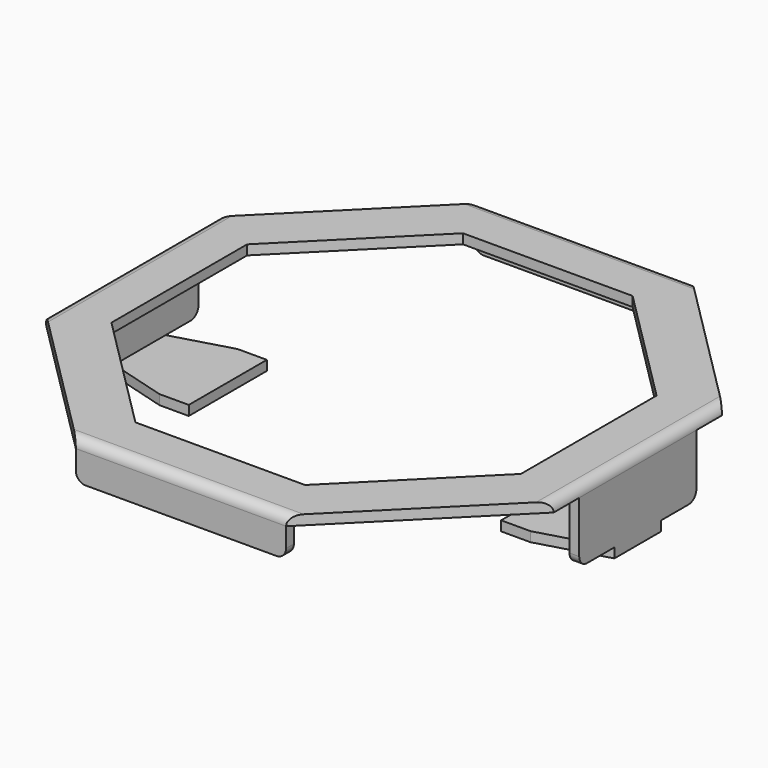
from build123d import *

# Parameters (mm, degrees)
PAD001_DEPTH = 0.1
SKETCH006_W  = 2.15391
SKETCH006_H  = 0.1
PAD002_DEPTH = 0.3
SKETCH007_W  = 0.1
SKETCH007_H  = 1.5
PAD003_DEPTH = 0.63
FILLET_R     = 0.1
PAD004_DEPTH = 0.1
FILLET001_R  = 0.1


with BuildPart() as part:
    # Sketch001 (on DatumPlane) → Pad001 (new body)
    with BuildSketch(Plane.XY.offset(0.84)):
        Polygon((-1.076955, 2.6), (1.076955, 2.6), (2.6, 1.076955), (2.6, -1.076955), (1.076955, -2.6), (-1.076955, -2.6), (-2.6, -1.076955), (-2.6, 1.076955), align=None)
        Polygon((-0.868691, 2.097207), (0.868691, 2.097207), (2.097207, 0.868691), (2.097207, -0.868691), (0.868691, -2.097207), (-0.868691, -2.097207), (-2.097207, -0.868691), (-2.097207, 0.868691), align=None, mode=Mode.SUBTRACT)
    extrude(amount=-PAD001_DEPTH)

    # Sketch006 (on Face18 of Pad001) → Pad002 (join)
    with BuildSketch(Plane(origin=(0, 0, 0.74), x_dir=(1, 0, 0), z_dir=(0, 0, -1))):
        with Locations((0, 2.55)):
            Rectangle(SKETCH006_W, SKETCH006_H)
        with Locations((0, -2.55)):
            Rectangle(SKETCH006_W, SKETCH006_H)
    extrude(amount=PAD002_DEPTH)

    # Sketch007 (on Face16 of Pad002) → Pad003 (join)
    with BuildSketch(Plane(origin=(0, 0, 0.74), x_dir=(1, 0, 0), z_dir=(0, 0, -1))):
        with Locations((-2.55, 0)):
            Rectangle(SKETCH007_W, SKETCH007_H)
        with Locations((2.55, 0)):
            Rectangle(SKETCH007_W, SKETCH007_H)
    extrude(amount=PAD003_DEPTH)

    # Fillet
    fillet_edges = [part.edges().sort_by_distance(p)[0] for p in [
        (-1.076955, -2.55, 0.44),
        (1.076955, -2.55, 0.44),
        (1.076955, 2.55, 0.44),
        (-1.076955, 2.55, 0.44),
        (-2.55, 0.75, 0.11),
        (-2.55, -0.75, 0.11),
        (2.55, -0.75, 0.11),
        (2.55, 0.75, 0.11),
    ]]
    fillet(fillet_edges, radius=FILLET_R)

    # Sketch008 (on Face41 of Fillet) → Pad004 (join)
    with BuildSketch(Plane(origin=(0, 0, 0.11), x_dir=(1, 0, 0), z_dir=(0, 0, -1))):
        Polygon((-2.6, -0.3), (-2.6, 0.3), (-1.9, 0.5), (-1.6, 0.5), (-1.6, -0.5), (-1.9, -0.5), align=None)
        Polygon((2.6, -0.3), (2.6, 0.3), (1.9, 0.5), (1.6, 0.5), (1.6, -0.5), (1.9, -0.5), align=None)
    extrude(amount=PAD004_DEPTH)

    # Fillet001
    fillet001_edges = [part.edges().sort_by_distance(p)[0] for p in [
        (0, -2.6, 0.84),
        (-2.6, 0, 0.84),
        (0, 2.6, 0.84),
        (2.6, 0, 0.84),
    ]]
    fillet(fillet001_edges, radius=FILLET001_R)


solid = part.part
